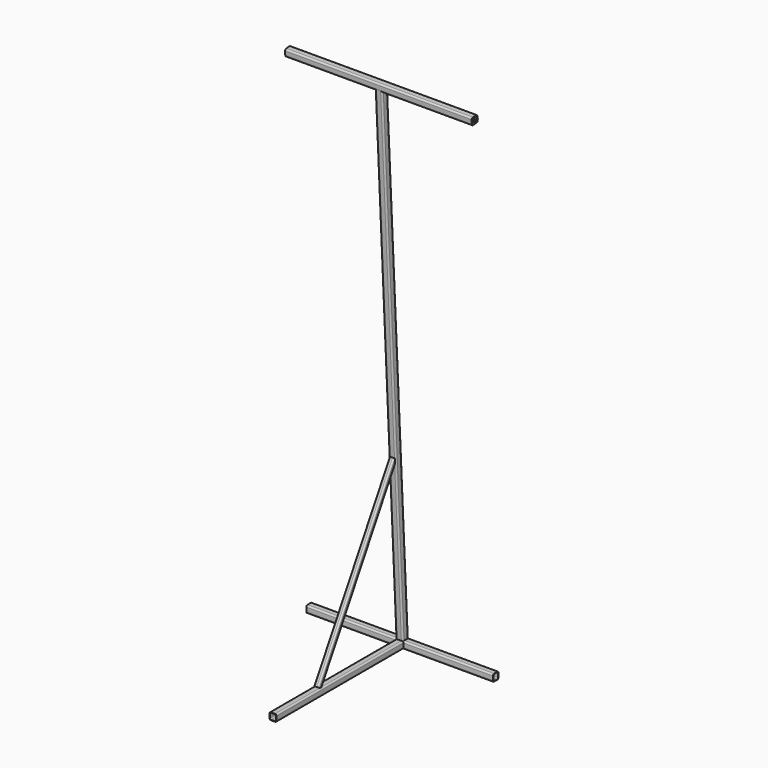
from build123d import *

# Parameters (mm, degrees)
F1_DEPTH  = 2130
F2_ANGLE  = 3
F4_DEPTH  = 790
F7_ANGLE  = 357
F10_DEPTH = 790
F13_ANGLE = 357
F15_DEPTH = 685
F17_DEPTH = 800
F18_ANGLE = -120


with BuildPart() as f1:
    # F0 (on Top) → F1 (new body)
    with BuildSketch(Plane.XY):
        with BuildLine():
            Line((8.65, 15), (-8.65, 15))
            ThreePointArc((-8.65, 15), (-13.1401280605, 13.1401280605), (-15, 8.65))
            Line((-15, 8.65), (-15, -8.65))
            ThreePointArc((-15, -8.65), (-13.1401280605, -13.1401280605), (-8.65, -15))
            Line((-8.65, -15), (8.65, -15))
            ThreePointArc((8.65, -15), (13.1401280605, -13.1401280605), (15, -8.65))
            Line((15, -8.65), (15, 8.65))
            ThreePointArc((15, 8.65), (13.1401280605, 13.1401280605), (8.65, 15))
        make_face()
        with BuildLine():
            ThreePointArc((-12.7140004188, 8.65), (-11.5236822549, 11.5236822549), (-8.65, 12.7140004188))
            Line((-8.65, 12.7140004188), (8.65, 12.7140004188))
            ThreePointArc((8.65, 12.7140004188), (11.5236822549, 11.5236822549), (12.7140004188, 8.65))
            Line((12.7140004188, 8.65), (12.7140004188, -8.65))
            ThreePointArc((12.7140004188, -8.65), (11.5236822549, -11.5236822549), (8.65, -12.7140004188))
            Line((8.65, -12.7140004188), (-8.65, -12.7140004188))
            ThreePointArc((-8.65, -12.7140004188), (-11.5236822549, -11.5236822549), (-12.7140004188, -8.65))
            Line((-12.7140004188, -8.65), (-12.7140004188, 8.65))
        make_face(mode=Mode.SUBTRACT)
    extrude(amount=F1_DEPTH)


with BuildPart() as f1_1:
    # F2: moved
    add(f1.part.rotate(Axis((0, -15, 0), (1, 0, 0)), F2_ANGLE))


with BuildPart() as f4:
    # F3 (on Right) → F4 (new body)
    with BuildSketch(Plane.YZ):
        with BuildLine():
            Line((9.3318181818, 14.3181818182), (-7.9681818182, 14.3181818182))
            ThreePointArc((-7.9681818182, 14.3181818182), (-12.4583098787, 12.4583098787), (-14.3181818182, 7.9681818182))
            Line((-14.3181818182, 7.9681818182), (-14.3181818182, -9.3318181818))
            ThreePointArc((-14.3181818182, -9.3318181818), (-12.4583098787, -13.8219462424), (-7.9681818182, -15.6818181818))
            Line((-7.9681818182, -15.6818181818), (9.3318181818, -15.6818181818))
            ThreePointArc((9.3318181818, -15.6818181818), (13.8219462424, -13.8219462424), (15.6818181818, -9.3318181818))
            Line((15.6818181818, -9.3318181818), (15.6818181818, 7.9681818182))
            ThreePointArc((15.6818181818, 7.9681818182), (13.8219462424, 12.4583098787), (9.3318181818, 14.3181818182))
        make_face()
        with BuildLine():
            ThreePointArc((-12.032182237, 7.9681818182), (-10.841864073, 10.841864073), (-7.9681818182, 12.032182237))
            Line((-7.9681818182, 12.032182237), (9.3318181818, 12.032182237))
            ThreePointArc((9.3318181818, 12.032182237), (12.2055004367, 10.841864073), (13.3958186006, 7.9681818182))
            Line((13.3958186006, 7.9681818182), (13.3958186006, -9.3318181818))
            ThreePointArc((13.3958186006, -9.3318181818), (12.2055004367, -12.2055004367), (9.3318181818, -13.3958186006))
            Line((9.3318181818, -13.3958186006), (-7.9681818182, -13.3958186006))
            ThreePointArc((-7.9681818182, -13.3958186006), (-10.841864073, -12.2055004367), (-12.032182237, -9.3318181818))
            Line((-12.032182237, -9.3318181818), (-12.032182237, 7.9681818182))
        make_face(mode=Mode.SUBTRACT)
    extrude(amount=F4_DEPTH)


with BuildPart() as f4_1:
    # F5: moved
    add(f4.part.moved(Location((-395, 0, 0))))


with BuildPart() as f6_1:
    # F6: copy of F4
    add(f4_1.part)


with BuildPart() as f6_1_1:
    # F7: moved
    add(f6_1.part.rotate(Axis((0, -7.9681818182, -15.6818181818), (-1, 0, 0)), F7_ANGLE))


with BuildPart() as f6_1_2:
    # F8: moved
    add(f6_1_1.part.moved(Location((0, -110.998, 2119.884))))


with BuildPart() as f10:
    # F9 (on Right) → F10 (new body)
    with BuildSketch(Plane.YZ):
        with BuildLine():
            Line((9.3318181818, 14.3181818182), (2.0318181818, 14.3181818182))
            ThreePointArc((2.0318181818, 14.3181818182), (-2.4583098787, 12.4583098787), (-4.3181818182, 7.9681818182))
            Line((-4.3181818182, 7.9681818182), (-4.3181818182, 0.6681818182))
            ThreePointArc((-4.3181818182, 0.6681818182), (-2.4583098787, -3.8219462424), (2.0318181818, -5.6818181818))
            Line((2.0318181818, -5.6818181818), (9.3318181818, -5.6818181818))
            ThreePointArc((9.3318181818, -5.6818181818), (13.8219462424, -3.8219462424), (15.6818181818, 0.6681818182))
            Line((15.6818181818, 0.6681818182), (15.6818181818, 7.9681818182))
            ThreePointArc((15.6818181818, 7.9681818182), (13.8219462424, 12.4583098787), (9.3318181818, 14.3181818182))
        make_face()
        with BuildLine():
            ThreePointArc((-2.032182237, 7.9681818182), (-0.841864073, 10.841864073), (2.0318181818, 12.032182237))
            Line((2.0318181818, 12.032182237), (9.3318181818, 12.032182237))
            ThreePointArc((9.3318181818, 12.032182237), (12.2055004367, 10.841864073), (13.3958186006, 7.9681818182))
            Line((13.3958186006, 7.9681818182), (13.3958186006, 0.6681818182))
            ThreePointArc((13.3958186006, 0.6681818182), (12.2055004367, -2.2055004367), (9.3318181818, -3.3958186006))
            Line((9.3318181818, -3.3958186006), (2.0318181818, -3.3958186006))
            ThreePointArc((2.0318181818, -3.3958186006), (-0.841864073, -2.2055004367), (-2.032182237, 0.6681818182))
            Line((-2.032182237, 0.6681818182), (-2.032182237, 7.9681818182))
        make_face(mode=Mode.SUBTRACT)
    extrude(amount=F10_DEPTH)


with BuildPart() as f10_1:
    # F11: moved
    add(f10.part.moved(Location((-395, 0, 0))))


with BuildPart() as f10_2:
    # F12: moved
    add(f10_1.part.moved(Location((0, -109.474, 2115.058))))


with BuildPart() as f10_3:
    # F13: moved
    add(f10_2.part.rotate(Axis((0, -107.4421818182, 2111.6621813994), (-1, 0, 0)), F13_ANGLE))


with BuildPart() as f15:
    # F14 (on Front) → F15 (new body)
    with BuildSketch(Plane.XZ):
        with BuildLine():
            Line((9.3318181818, 14.3181818182), (-7.9681818182, 14.3181818182))
            ThreePointArc((-7.9681818182, 14.3181818182), (-12.4583098787, 12.4583098787), (-14.3181818182, 7.9681818182))
            Line((-14.3181818182, 7.9681818182), (-14.3181818182, -9.3318181818))
            ThreePointArc((-14.3181818182, -9.3318181818), (-12.4583098787, -13.8219462424), (-7.9681818182, -15.6818181818))
            Line((-7.9681818182, -15.6818181818), (9.3318181818, -15.6818181818))
            ThreePointArc((9.3318181818, -15.6818181818), (13.8219462424, -13.8219462424), (15.6818181818, -9.3318181818))
            Line((15.6818181818, -9.3318181818), (15.6818181818, 7.9681818182))
            ThreePointArc((15.6818181818, 7.9681818182), (13.8219462424, 12.4583098787), (9.3318181818, 14.3181818182))
        make_face()
        with BuildLine():
            ThreePointArc((-12.032182237, 7.9681818182), (-10.841864073, 10.841864073), (-7.9681818182, 12.032182237))
            Line((-7.9681818182, 12.032182237), (9.3318181818, 12.032182237))
            ThreePointArc((9.3318181818, 12.032182237), (12.2055004367, 10.841864073), (13.3958186006, 7.9681818182))
            Line((13.3958186006, 7.9681818182), (13.3958186006, -9.3318181818))
            ThreePointArc((13.3958186006, -9.3318181818), (12.2055004367, -12.2055004367), (9.3318181818, -13.3958186006))
            Line((9.3318181818, -13.3958186006), (-7.9681818182, -13.3958186006))
            ThreePointArc((-7.9681818182, -13.3958186006), (-10.841864073, -12.2055004367), (-12.032182237, -9.3318181818))
            Line((-12.032182237, -9.3318181818), (-12.032182237, 7.9681818182))
        make_face(mode=Mode.SUBTRACT)
    extrude(amount=F15_DEPTH)


with BuildPart() as f17:
    # F16 (on Front) → F17 (new body)
    with BuildSketch(Plane.XZ):
        with BuildLine():
            Line((4.1045454545, 9.5454545455), (-3.1954545455, 9.5454545455))
            ThreePointArc((-3.1954545455, 9.5454545455), (-7.685582606, 7.685582606), (-9.5454545455, 3.1954545455))
            Line((-9.5454545455, 3.1954545455), (-9.5454545455, -4.1045454545))
            ThreePointArc((-9.5454545455, -4.1045454545), (-7.685582606, -8.5946735151), (-3.1954545455, -10.4545454545))
            Line((-3.1954545455, -10.4545454545), (4.1045454545, -10.4545454545))
            ThreePointArc((4.1045454545, -10.4545454545), (8.5946735151, -8.5946735151), (10.4545454545, -4.1045454545))
            Line((10.4545454545, -4.1045454545), (10.4545454545, 3.1954545455))
            ThreePointArc((10.4545454545, 3.1954545455), (8.5946735151, 7.685582606), (4.1045454545, 9.5454545455))
        make_face()
        with BuildLine():
            ThreePointArc((-7.2594549642, 3.1954545455), (-6.0691368003, 6.0691368003), (-3.1954545455, 7.2594549642))
            Line((-3.1954545455, 7.2594549642), (4.1045454545, 7.2594549642))
            ThreePointArc((4.1045454545, 7.2594549642), (6.9782277094, 6.0691368003), (8.1685458733, 3.1954545455))
            Line((8.1685458733, 3.1954545455), (8.1685458733, -4.1045454545))
            ThreePointArc((8.1685458733, -4.1045454545), (6.9782277094, -6.9782277094), (4.1045454545, -8.1685458733))
            Line((4.1045454545, -8.1685458733), (-3.1954545455, -8.1685458733))
            ThreePointArc((-3.1954545455, -8.1685458733), (-6.0691368003, -6.9782277094), (-7.2594549642, -4.1045454545))
            Line((-7.2594549642, -4.1045454545), (-7.2594549642, 3.1954545455))
        make_face(mode=Mode.SUBTRACT)
    extrude(amount=F17_DEPTH)


with BuildPart() as f17_1:
    # F18: moved
    add(f17.part.rotate(Axis((0.4545454545, 0, 9.5454545455), (1, 0, 0)), F18_ANGLE))


with BuildPart() as f17_2:
    # F19: moved
    add(f17_1.part.moved(Location((0, -439.42, 0))))


solid = Compound([f1_1.part, f4_1.part, f6_1_2.part, f10_3.part, f15.part, f17_2.part])
